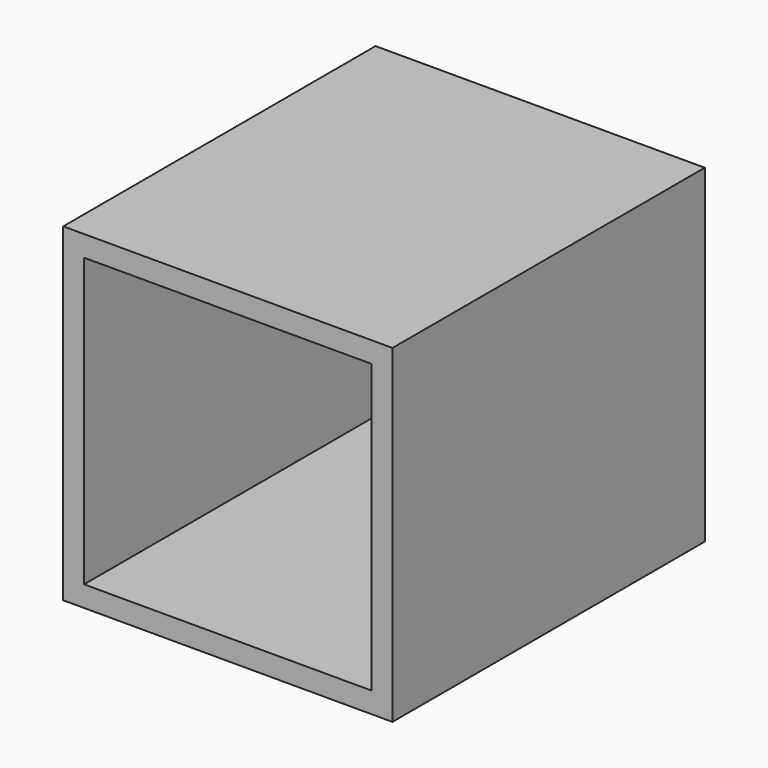
from build123d import *

# Parameters (mm, degrees)
F0_W     = 100.4
F0_H     = 100.4
F0_W_2   = 87.7
F0_H_2   = 87.7
F1_DEPTH = 6.35
F2_DEPTH = 119.05


with BuildPart() as f1:
    # F0 (on Front) → F1 (new body)
    with BuildSketch(Plane.XZ):
        with Locations((0, 50.2)):
            Rectangle(F0_W, F0_H)
        with Locations((0, 50.2)):
            Rectangle(F0_W_2, F0_H_2, mode=Mode.SUBTRACT)
        with Locations((0, 50.2)):
            Rectangle(F0_W_2, F0_H_2)
    extrude(amount=F1_DEPTH)

    # F0 (on Front) → F2 (join)
    with BuildSketch(Plane.XZ):
        with Locations((0, 50.2)):
            Rectangle(F0_W, F0_H)
        with Locations((0, 50.2)):
            Rectangle(F0_W_2, F0_H_2, mode=Mode.SUBTRACT)
    extrude(amount=F2_DEPTH)


solid = f1.part
